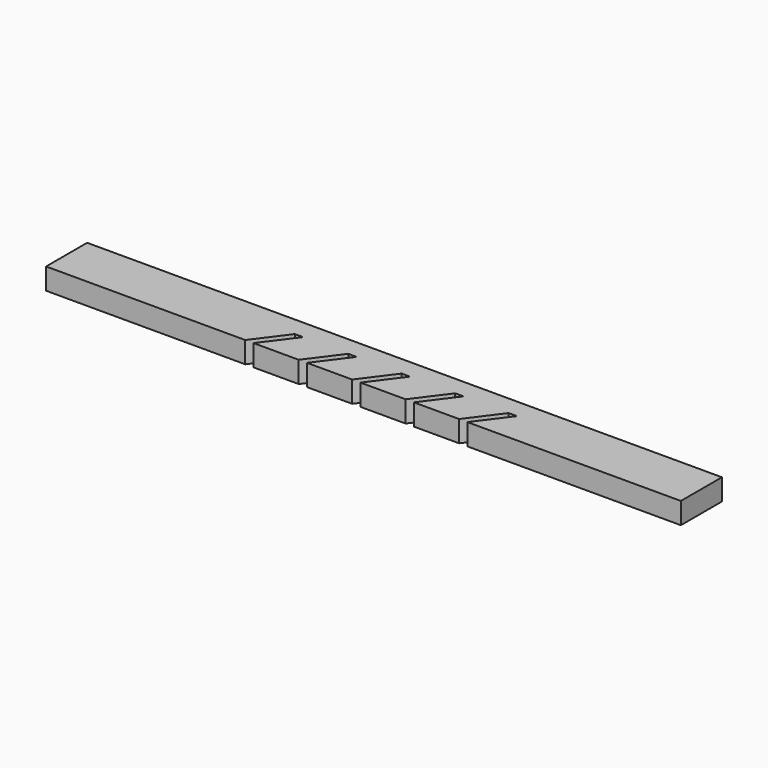
from build123d import *

# Parameters (mm, degrees)
F1_DEPTH      = 5
F1_DEPTH_BACK = 5


with BuildPart() as f1:
    # F0 (on Top) → F1 (new body, two sides)
    with BuildSketch(Plane.XY) as f1_sk:
        Polygon((142.402977, 12), (-154.432267, 12), (-154.432267, -12), (-61.303213, -12), (-50.127726, 2.996326), (-46.240598, 2.996326), (-57.416085, -12), (-36.303213, -12), (-25.127726, 2.996326), (-21.240598, 2.996326), (-32.416085, -12), (-11.303213, -12), (-0.127726, 2.996326), (3.759402, 2.996326), (-7.416085, -12), (13.696787, -12), (24.872274, 2.996326), (28.759402, 2.996326), (17.583915, -12), (38.696787, -12), (49.872274, 2.996326), (53.759402, 2.996326), (42.583915, -12), (142.402977, -12), align=None)
    extrude(amount=F1_DEPTH)
    extrude(f1_sk.sketch, amount=-F1_DEPTH_BACK)


solid = f1.part
